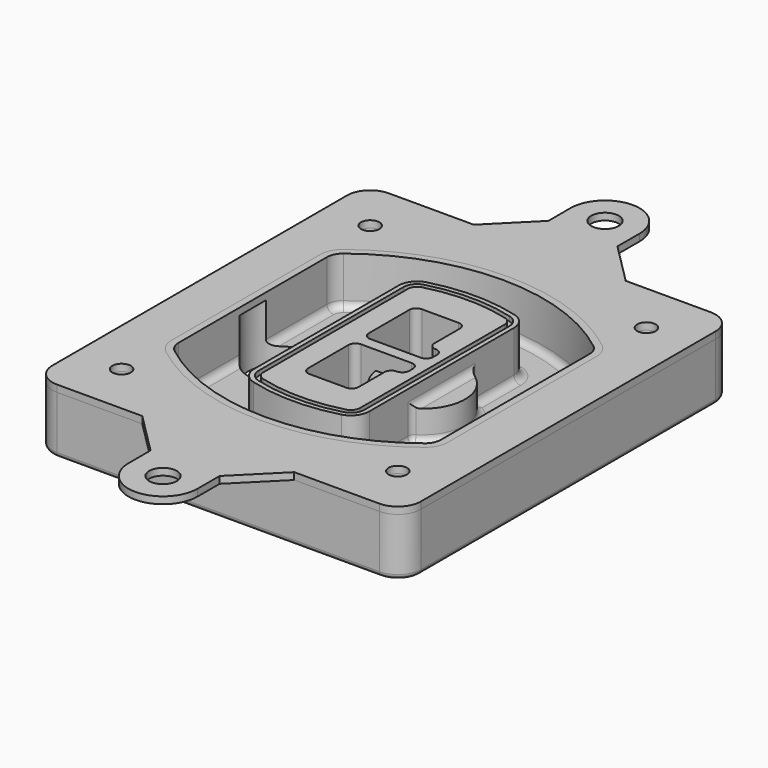
from build123d import *

# Parameters (mm, degrees)
F0_R      = 4
F1_DEPTH  = 25
F2_DEPTH  = 3
F3_DEPTH  = 18
F5_DEPTH  = 21
F6_DEPTH  = 2
F8_DEPTH  = 20
F9_DEPTH  = 16
F10_DEPTH = 25
F7_R      = 6
F7_R_2    = 4
F11_DEPTH = 6
F13_DEPTH = 9
F14_R     = 3
F15_R     = 2
F16_R     = 4
F16_R_2   = 6
F17_DEPTH = 3


with BuildPart() as f1:
    # F0 (on Top) → F1 (new body)
    with BuildSketch(Plane.XY):
        with BuildLine():
            ThreePointArc((-80, -80), (-77.0710678119, -87.0710678119), (-70, -90))
            Line((-70, -90), (70, -90))
            ThreePointArc((70, -90), (77.0710678119, -87.0710678119), (80, -80))
            Line((80, -80), (80, 80))
            ThreePointArc((80, 80), (77.0710678119, 87.0710678119), (70, 90))
            Line((70, 90), (-70, 90))
            ThreePointArc((-70, 90), (-77.0710678119, 87.0710678119), (-80, 80))
            Line((-80, 80), (-80, -80))
        make_face()
        with Locations((-60, -67.5)):
            Circle(F0_R, mode=Mode.SUBTRACT)
        with Locations((60, -67.5)):
            Circle(F0_R, mode=Mode.SUBTRACT)
        with Locations((-60, 67.5)):
            Circle(F0_R, mode=Mode.SUBTRACT)
        with BuildLine():
            ThreePointArc((-64, 40.2934422872), (-62.5820384798, 46.4328484224), (-58.6153846154, 51.3286200352))
            ThreePointArc((-58.6153846154, 51.3286200352), (0, 71.5), (58.6153846154, 51.3286200352))
            ThreePointArc((58.6153846154, 51.3286200352), (62.5820384798, 46.4328484224), (64, 40.2934422872))
            Line((64, 40.2934422872), (64, -40.2934422872))
            ThreePointArc((64, -40.2934422872), (62.5820384798, -46.4328484224), (58.6153846154, -51.3286200352))
            ThreePointArc((58.6153846154, -51.3286200352), (0, -71.5), (-58.6153846154, -51.3286200352))
            ThreePointArc((-58.6153846154, -51.3286200352), (-62.5820384798, -46.4328484224), (-64, -40.2934422872))
            Line((-64, -40.2934422872), (-64, 40.2934422872))
        make_face(mode=Mode.SUBTRACT)
        with Locations((60, 67.5)):
            Circle(F0_R, mode=Mode.SUBTRACT)
        with BuildLine():
            ThreePointArc((58.6153846154, 51.3286200352), (0, 71.5), (-58.6153846154, 51.3286200352))
            ThreePointArc((-58.6153846154, 51.3286200352), (-62.5820384798, 46.4328484224), (-64, 40.2934422872))
            Line((-64, 40.2934422872), (-64, -40.2934422872))
            ThreePointArc((-64, -40.2934422872), (-62.5820384798, -46.4328484224), (-58.6153846154, -51.3286200352))
            ThreePointArc((-58.6153846154, -51.3286200352), (0, -71.5), (58.6153846154, -51.3286200352))
            ThreePointArc((58.6153846154, -51.3286200352), (62.5820384798, -46.4328484224), (64, -40.2934422872))
            Line((64, -40.2934422872), (64, 40.2934422872))
            ThreePointArc((64, 40.2934422872), (62.5820384798, 46.4328484224), (58.6153846154, 51.3286200352))
        make_face()
        with BuildLine():
            Line((-60, -40.2934422872), (-60, 40.2934422872))
            ThreePointArc((-60, 40.2934422872), (-58.9871703427, 44.6787323838), (-56.1538461538, 48.1757121072))
            ThreePointArc((-56.1538461538, 48.1757121072), (0, 67.5), (56.1538461538, 48.1757121072))
            ThreePointArc((56.1538461538, 48.1757121072), (58.9871703427, 44.6787323838), (60, 40.2934422872))
            Line((60, 40.2934422872), (60, -40.2934422872))
            ThreePointArc((60, -40.2934422872), (58.9871703427, -44.6787323838), (56.1538461538, -48.1757121072))
            ThreePointArc((56.1538461538, -48.1757121072), (0, -67.5), (-56.1538461538, -48.1757121072))
            ThreePointArc((-56.1538461538, -48.1757121072), (-58.9871703427, -44.6787323838), (-60, -40.2934422872))
        make_face(mode=Mode.SUBTRACT)
        with BuildLine():
            ThreePointArc((-56.1538461538, 48.1757121072), (-58.9871703427, 44.6787323838), (-60, 40.2934422872))
            Line((-60, 40.2934422872), (-60, -40.2934422872))
            ThreePointArc((-60, -40.2934422872), (-58.9871703427, -44.6787323838), (-56.1538461538, -48.1757121072))
            ThreePointArc((-56.1538461538, -48.1757121072), (0, -67.5), (56.1538461538, -48.1757121072))
            ThreePointArc((56.1538461538, -48.1757121072), (58.9871703427, -44.6787323838), (60, -40.2934422872))
            Line((60, -40.2934422872), (60, 40.2934422872))
            ThreePointArc((60, 40.2934422872), (58.9871703427, 44.6787323838), (56.1538461538, 48.1757121072))
            ThreePointArc((56.1538461538, 48.1757121072), (0, 67.5), (-56.1538461538, 48.1757121072))
        make_face()
        with BuildLine():
            ThreePointArc((54.3076923077, 45.8110311612), (56.2910192399, 43.3631453548), (57, 40.2934422872))
            Line((57, 40.2934422872), (57, -40.2934422872))
            ThreePointArc((57, -40.2934422872), (56.2910192399, -43.3631453548), (54.3076923077, -45.8110311612))
            ThreePointArc((54.3076923077, -45.8110311612), (0, -64.5), (-54.3076923077, -45.8110311612))
            ThreePointArc((-54.3076923077, -45.8110311612), (-56.2910192399, -43.3631453548), (-57, -40.2934422872))
            Line((-57, -40.2934422872), (-57, 40.2934422872))
            ThreePointArc((-57, 40.2934422872), (-56.2910192399, 43.3631453548), (-54.3076923077, 45.8110311612))
            ThreePointArc((-54.3076923077, 45.8110311612), (0, 64.5), (54.3076923077, 45.8110311612))
        make_face(mode=Mode.SUBTRACT)
        with BuildLine():
            Line((57, -40.2934422872), (57, 40.2934422872))
            ThreePointArc((57, 40.2934422872), (56.2910192399, 43.3631453548), (54.3076923077, 45.8110311612))
            ThreePointArc((54.3076923077, 45.8110311612), (0, 64.5), (-54.3076923077, 45.8110311612))
            ThreePointArc((-54.3076923077, 45.8110311612), (-56.2910192399, 43.3631453548), (-57, 40.2934422872))
            Line((-57, 40.2934422872), (-57, -40.2934422872))
            ThreePointArc((-57, -40.2934422872), (-56.2910192399, -43.3631453548), (-54.3076923077, -45.8110311612))
            ThreePointArc((-54.3076923077, -45.8110311612), (0, -64.5), (54.3076923077, -45.8110311612))
            ThreePointArc((54.3076923077, -45.8110311612), (56.2910192399, -43.3631453548), (57, -40.2934422872))
        make_face()
    extrude(amount=-F1_DEPTH)

    # F0 (on Top) → F2 (join)
    with BuildSketch(Plane.XY):
        with BuildLine():
            ThreePointArc((-56.1538461538, 48.1757121072), (-58.9871703427, 44.6787323838), (-60, 40.2934422872))
            Line((-60, 40.2934422872), (-60, -40.2934422872))
            ThreePointArc((-60, -40.2934422872), (-58.9871703427, -44.6787323838), (-56.1538461538, -48.1757121072))
            ThreePointArc((-56.1538461538, -48.1757121072), (0, -67.5), (56.1538461538, -48.1757121072))
            ThreePointArc((56.1538461538, -48.1757121072), (58.9871703427, -44.6787323838), (60, -40.2934422872))
            Line((60, -40.2934422872), (60, 40.2934422872))
            ThreePointArc((60, 40.2934422872), (58.9871703427, 44.6787323838), (56.1538461538, 48.1757121072))
            ThreePointArc((56.1538461538, 48.1757121072), (0, 67.5), (-56.1538461538, 48.1757121072))
        make_face()
        with BuildLine():
            ThreePointArc((54.3076923077, 45.8110311612), (56.2910192399, 43.3631453548), (57, 40.2934422872))
            Line((57, 40.2934422872), (57, -40.2934422872))
            ThreePointArc((57, -40.2934422872), (56.2910192399, -43.3631453548), (54.3076923077, -45.8110311612))
            ThreePointArc((54.3076923077, -45.8110311612), (0, -64.5), (-54.3076923077, -45.8110311612))
            ThreePointArc((-54.3076923077, -45.8110311612), (-56.2910192399, -43.3631453548), (-57, -40.2934422872))
            Line((-57, -40.2934422872), (-57, 40.2934422872))
            ThreePointArc((-57, 40.2934422872), (-56.2910192399, 43.3631453548), (-54.3076923077, 45.8110311612))
            ThreePointArc((-54.3076923077, 45.8110311612), (0, 64.5), (54.3076923077, 45.8110311612))
        make_face(mode=Mode.SUBTRACT)
    extrude(amount=F2_DEPTH)

    # F0 (on Top) → F3 (cut)
    with BuildSketch(Plane.XY):
        with BuildLine():
            Line((57, -40.2934422872), (57, 40.2934422872))
            ThreePointArc((57, 40.2934422872), (56.2910192399, 43.3631453548), (54.3076923077, 45.8110311612))
            ThreePointArc((54.3076923077, 45.8110311612), (0, 64.5), (-54.3076923077, 45.8110311612))
            ThreePointArc((-54.3076923077, 45.8110311612), (-56.2910192399, 43.3631453548), (-57, 40.2934422872))
            Line((-57, 40.2934422872), (-57, -40.2934422872))
            ThreePointArc((-57, -40.2934422872), (-56.2910192399, -43.3631453548), (-54.3076923077, -45.8110311612))
            ThreePointArc((-54.3076923077, -45.8110311612), (0, -64.5), (54.3076923077, -45.8110311612))
            ThreePointArc((54.3076923077, -45.8110311612), (56.2910192399, -43.3631453548), (57, -40.2934422872))
        make_face()
    extrude(amount=-F3_DEPTH, mode=Mode.SUBTRACT)

    # F4 (on face) → F5 (join, through all)
    with BuildSketch(Plane.XY.offset(3)):
        with BuildLine():
            ThreePointArc((-25, -39.2465276821), (-23.3511545998, -44.1109737193), (-19.0842911877, -46.9702398883))
            ThreePointArc((-19.0842911877, -46.9702398883), (0, -49.5), (19.0842911877, -46.9702398883))
            ThreePointArc((19.0842911877, -46.9702398883), (23.3511545998, -44.1109737193), (25, -39.2465276821))
            Line((25, -39.2465276821), (25, 39.2465276821))
            ThreePointArc((25, 39.2465276821), (23.3511545998, 44.1109737193), (19.0842911877, 46.9702398883))
            ThreePointArc((19.0842911877, 46.9702398883), (0, 49.5), (-19.0842911877, 46.9702398883))
            ThreePointArc((-19.0842911877, 46.9702398883), (-23.3511545998, 44.1109737193), (-25, 39.2465276821))
            Line((-25, 39.2465276821), (-25, -39.2465276821))
        make_face()
        with BuildLine():
            ThreePointArc((18.5632183908, 45.0393118368), (21.7633659499, 42.89486221), (23, 39.2465276821))
            Line((23, 39.2465276821), (23, -39.2465276821))
            ThreePointArc((23, -39.2465276821), (21.7633659499, -42.89486221), (18.5632183908, -45.0393118368))
            ThreePointArc((18.5632183908, -45.0393118368), (0, -47.5), (-18.5632183908, -45.0393118368))
            ThreePointArc((-18.5632183908, -45.0393118368), (-21.7633659499, -42.89486221), (-23, -39.2465276821))
            Line((-23, -39.2465276821), (-23, 39.2465276821))
            ThreePointArc((-23, 39.2465276821), (-21.7633659499, 42.89486221), (-18.5632183908, 45.0393118368))
            ThreePointArc((-18.5632183908, 45.0393118368), (0, 47.5), (18.5632183908, 45.0393118368))
        make_face(mode=Mode.SUBTRACT)
        with BuildLine():
            Line((23, -39.2465276821), (23, 39.2465276821))
            ThreePointArc((23, 39.2465276821), (21.7633659499, 42.89486221), (18.5632183908, 45.0393118368))
            ThreePointArc((18.5632183908, 45.0393118368), (0, 47.5), (-18.5632183908, 45.0393118368))
            ThreePointArc((-18.5632183908, 45.0393118368), (-21.7633659499, 42.89486221), (-23, 39.2465276821))
            Line((-23, 39.2465276821), (-23, -39.2465276821))
            ThreePointArc((-23, -39.2465276821), (-21.7633659499, -42.89486221), (-18.5632183908, -45.0393118368))
            ThreePointArc((-18.5632183908, -45.0393118368), (0, -47.5), (18.5632183908, -45.0393118368))
            ThreePointArc((18.5632183908, -45.0393118368), (21.7633659499, -42.89486221), (23, -39.2465276821))
        make_face()
        with BuildLine():
            ThreePointArc((18.0421455939, 43.1083837852), (20.1755772999, 41.6787507007), (21, 39.2465276821))
            Line((21, 39.2465276821), (21, -39.2465276821))
            ThreePointArc((21, -39.2465276821), (20.1755772999, -41.6787507007), (18.0421455939, -43.1083837852))
            ThreePointArc((18.0421455939, -43.1083837852), (0, -45.5), (-18.0421455939, -43.1083837852))
            ThreePointArc((-18.0421455939, -43.1083837852), (-20.1755772999, -41.6787507007), (-21, -39.2465276821))
            Line((-21, -39.2465276821), (-21, 39.2465276821))
            ThreePointArc((-21, 39.2465276821), (-20.1755772999, 41.6787507007), (-18.0421455939, 43.1083837852))
            ThreePointArc((-18.0421455939, 43.1083837852), (0, 45.5), (18.0421455939, 43.1083837852))
        make_face(mode=Mode.SUBTRACT)
        with BuildLine():
            Line((21, -39.2465276821), (21, 39.2465276821))
            ThreePointArc((21, 39.2465276821), (20.1755772999, 41.6787507007), (18.0421455939, 43.1083837852))
            ThreePointArc((18.0421455939, 43.1083837852), (0, 45.5), (-18.0421455939, 43.1083837852))
            ThreePointArc((-18.0421455939, 43.1083837852), (-20.1755772999, 41.6787507007), (-21, 39.2465276821))
            Line((-21, 39.2465276821), (-21, -39.2465276821))
            ThreePointArc((-21, -39.2465276821), (-20.1755772999, -41.6787507007), (-18.0421455939, -43.1083837852))
            ThreePointArc((-18.0421455939, -43.1083837852), (0, -45.5), (18.0421455939, -43.1083837852))
            ThreePointArc((18.0421455939, -43.1083837852), (20.1755772999, -41.6787507007), (21, -39.2465276821))
        make_face()
        with BuildLine():
            Line((-8, -2.5), (14, -2.5))
            ThreePointArc((14, -2.5), (16.1213203436, -3.3786796564), (17, -5.5))
            Line((17, -5.5), (17, -7.5))
            ThreePointArc((17, -7.5), (16.1213203436, -9.6213203436), (14, -10.5))
            ThreePointArc((14, -10.5), (11.8786796564, -11.3786796564), (11, -13.5))
            Line((11, -13.5), (11, -27.5))
            ThreePointArc((11, -27.5), (10.1213203436, -29.6213203436), (8, -30.5))
            Line((8, -30.5), (-8, -30.5))
            ThreePointArc((-8, -30.5), (-10.1213203436, -29.6213203436), (-11, -27.5))
            Line((-11, -27.5), (-11, -5.5))
            ThreePointArc((-11, -5.5), (-10.1213203436, -3.3786796564), (-8, -2.5))
        make_face(mode=Mode.SUBTRACT)
        with BuildLine():
            ThreePointArc((-8, 2.5), (-10.1213203436, 3.3786796564), (-11, 5.5))
            Line((-11, 5.5), (-11, 27.5))
            ThreePointArc((-11, 27.5), (-10.1213203436, 29.6213203436), (-8, 30.5))
            Line((-8, 30.5), (8, 30.5))
            ThreePointArc((8, 30.5), (10.1213203436, 29.6213203436), (11, 27.5))
            Line((11, 27.5), (11, 13.5))
            ThreePointArc((11, 13.5), (11.8786796564, 11.3786796564), (14, 10.5))
            ThreePointArc((14, 10.5), (16.1213203436, 9.6213203436), (17, 7.5))
            Line((17, 7.5), (17, 5.5))
            ThreePointArc((17, 5.5), (16.1213203436, 3.3786796564), (14, 2.5))
            Line((14, 2.5), (-8, 2.5))
        make_face(mode=Mode.SUBTRACT)
    extrude(amount=-F5_DEPTH)

    # F4 (on face) → F6 (cut)
    with BuildSketch(Plane.XY.offset(3)):
        with BuildLine():
            Line((23, -39.2465276821), (23, 39.2465276821))
            ThreePointArc((23, 39.2465276821), (21.7633659499, 42.89486221), (18.5632183908, 45.0393118368))
            ThreePointArc((18.5632183908, 45.0393118368), (0, 47.5), (-18.5632183908, 45.0393118368))
            ThreePointArc((-18.5632183908, 45.0393118368), (-21.7633659499, 42.89486221), (-23, 39.2465276821))
            Line((-23, 39.2465276821), (-23, -39.2465276821))
            ThreePointArc((-23, -39.2465276821), (-21.7633659499, -42.89486221), (-18.5632183908, -45.0393118368))
            ThreePointArc((-18.5632183908, -45.0393118368), (0, -47.5), (18.5632183908, -45.0393118368))
            ThreePointArc((18.5632183908, -45.0393118368), (21.7633659499, -42.89486221), (23, -39.2465276821))
        make_face()
        with BuildLine():
            ThreePointArc((18.0421455939, 43.1083837852), (20.1755772999, 41.6787507007), (21, 39.2465276821))
            Line((21, 39.2465276821), (21, -39.2465276821))
            ThreePointArc((21, -39.2465276821), (20.1755772999, -41.6787507007), (18.0421455939, -43.1083837852))
            ThreePointArc((18.0421455939, -43.1083837852), (0, -45.5), (-18.0421455939, -43.1083837852))
            ThreePointArc((-18.0421455939, -43.1083837852), (-20.1755772999, -41.6787507007), (-21, -39.2465276821))
            Line((-21, -39.2465276821), (-21, 39.2465276821))
            ThreePointArc((-21, 39.2465276821), (-20.1755772999, 41.6787507007), (-18.0421455939, 43.1083837852))
            ThreePointArc((-18.0421455939, 43.1083837852), (0, 45.5), (18.0421455939, 43.1083837852))
        make_face(mode=Mode.SUBTRACT)
    extrude(amount=-F6_DEPTH, mode=Mode.SUBTRACT)

    # F7 (on face) → F8 (join)
    with BuildSketch(Plane(origin=(0, 0, -25), x_dir=(1, 0, 0), z_dir=(0, 0, -1))):
        with BuildLine():
            ThreePointArc((3.28842436, 0), (16.7567035675, 13.4682792075), (30.224982775, 0))
            Line((30.224982775, 0), (35.224982775, 0))
            ThreePointArc((35.224982775, 0), (16.7567035675, 18.4682792075), (-1.71157564, 0))
            Line((-1.71157564, 0), (3.28842436, 0))
        make_face()
        with BuildLine():
            Line((3.28842436, 0), (30.224982775, 0))
            ThreePointArc((30.224982775, 0), (16.7567035675, 13.4682792075), (3.28842436, 0))
        make_face()
        with BuildLine():
            ThreePointArc((3.28842436, 0), (16.7567035675, -13.4682792075), (30.224982775, 0))
            Line((30.224982775, 0), (3.28842436, 0))
        make_face()
        with BuildLine():
            Line((35.224982775, 0), (30.224982775, 0))
            ThreePointArc((30.224982775, 0), (16.7567035675, -13.4682792075), (3.28842436, 0))
            Line((3.28842436, 0), (-1.71157564, 0))
            ThreePointArc((-1.71157564, 0), (16.7567035675, -18.4682792075), (35.224982775, 0))
        make_face()
    extrude(amount=-F8_DEPTH)

    # F7 (on face) → F9 (cut)
    with BuildSketch(Plane(origin=(0, 0, -25), x_dir=(1, 0, 0), z_dir=(0, 0, -1))):
        with BuildLine():
            Line((3.28842436, 0), (30.224982775, 0))
            ThreePointArc((30.224982775, 0), (16.7567035675, 13.4682792075), (3.28842436, 0))
        make_face()
        with BuildLine():
            ThreePointArc((3.28842436, 0), (16.7567035675, -13.4682792075), (30.224982775, 0))
            Line((30.224982775, 0), (3.28842436, 0))
        make_face()
    extrude(amount=-F9_DEPTH, mode=Mode.SUBTRACT)

    # F7 (on face) → F10 (cut)
    with BuildSketch(Plane(origin=(0, 0, -25), x_dir=(1, 0, 0), z_dir=(0, 0, -1))):
        with BuildLine():
            Line((-59.0318229325, 0), (-32.0952645175, 0))
            ThreePointArc((-32.0952645175, 0), (-45.563543725, 13.4682792075), (-59.0318229325, 0))
        make_face()
        with BuildLine():
            ThreePointArc((-59.0318229325, 0), (-45.563543725, -13.4682792075), (-32.0952645175, 0))
            Line((-32.0952645175, 0), (-59.0318229325, 0))
        make_face()
    extrude(amount=-F10_DEPTH, mode=Mode.SUBTRACT)

    # F7 (on face) → F11 (cut)
    with BuildSketch(Plane(origin=(0, 0, -25), x_dir=(1, 0, 0), z_dir=(0, 0, -1))):
        with Locations((60, -67.5)):
            Circle(F7_R)
        with Locations((60, -67.5)):
            Circle(F7_R_2, mode=Mode.SUBTRACT)
        with Locations((60, -67.5)):
            Circle(F7_R)
        with Locations((60, -67.5)):
            Circle(F7_R_2, mode=Mode.SUBTRACT)
        with Locations((-60, -67.5)):
            Circle(F7_R)
        with Locations((-60, -67.5)):
            Circle(F7_R_2, mode=Mode.SUBTRACT)
        with Locations((-60, -67.5)):
            Circle(F7_R)
        with Locations((-60, -67.5)):
            Circle(F7_R_2, mode=Mode.SUBTRACT)
        with Locations((-60, 67.5)):
            Circle(F7_R)
        with Locations((-60, 67.5)):
            Circle(F7_R_2, mode=Mode.SUBTRACT)
        with Locations((-60, 67.5)):
            Circle(F7_R)
        with Locations((-60, 67.5)):
            Circle(F7_R_2, mode=Mode.SUBTRACT)
        with Locations((60, 67.5)):
            Circle(F7_R)
        with Locations((60, 67.5)):
            Circle(F7_R_2, mode=Mode.SUBTRACT)
        with Locations((60, 67.5)):
            Circle(F7_R)
        with Locations((60, 67.5)):
            Circle(F7_R_2, mode=Mode.SUBTRACT)
    extrude(amount=-F11_DEPTH, mode=Mode.SUBTRACT)

    # F12 (on face) → F13 (cut, through all)
    with BuildSketch(Plane(origin=(0, 0, -9), x_dir=(1, 0, 0), z_dir=(0, 0, -1))):
        with BuildLine():
            Line((11, 13.5), (11, 17.5481537753))
            ThreePointArc((11, 17.5481537753), (2.5696536419, 11.8239143813), (-1.5415842455, 2.5))
            Line((-1.5415842455, 2.5), (3.5224848595, 2.5))
            ThreePointArc((3.5224848595, 2.5), (6.1857188154, 8.3455872281), (11.2536447004, 12.2927168648))
            ThreePointArc((11.2536447004, 12.2927168648), (11.0640958889, 12.8831798879), (11, 13.5))
        make_face()
        with BuildLine():
            ThreePointArc((11.2536447004, -12.2927168648), (6.1857188154, -8.3455872281), (3.5224848595, -2.5))
            Line((3.5224848595, -2.5), (-1.5415842455, -2.5))
            ThreePointArc((-1.5415842455, -2.5), (2.5696536419, -11.8239143813), (11, -17.5481537753))
            Line((11, -17.5481537753), (11, -13.5))
            ThreePointArc((11, -13.5), (11.0640958889, -12.8831798879), (11.2536447004, -12.2927168648))
        make_face()
        with BuildLine():
            ThreePointArc((11.2536447004, 12.2927168648), (6.1857188154, 8.3455872281), (3.5224848595, 2.5))
            Line((3.5224848595, 2.5), (14, 2.5))
            ThreePointArc((14, 2.5), (16.1213203436, 3.3786796564), (17, 5.5))
            Line((17, 5.5), (17, 7.5))
            ThreePointArc((17, 7.5), (16.1213203436, 9.6213203436), (14, 10.5))
            ThreePointArc((14, 10.5), (12.3601599782, 10.9878446101), (11.2536447004, 12.2927168648))
        make_face()
        with BuildLine():
            Line((14, -2.5), (3.5224848595, -2.5))
            ThreePointArc((3.5224848595, -2.5), (6.1857188154, -8.3455872281), (11.2536447004, -12.2927168648))
            ThreePointArc((11.2536447004, -12.2927168648), (12.3601599782, -10.9878446101), (14, -10.5))
            ThreePointArc((14, -10.5), (16.1213203436, -9.6213203436), (17, -7.5))
            Line((17, -7.5), (17, -5.5))
            ThreePointArc((17, -5.5), (16.1213203436, -3.3786796564), (14, -2.5))
        make_face()
    extrude(amount=F13_DEPTH, mode=Mode.SUBTRACT)

    # F14
    f14_edges = [f1.edges().sort_by_distance(p)[0] for p in [
        (-57, -23.703476, -18),
        (-57, 23.703476, -18),
        (25, 0, -5),
        (25, 16.526506, -11.5),
        (25, -16.526506, -11.5),
        (25, -27.886517, -18),
        (35.224983, 0, -18),
    ]]
    fillet(f14_edges, radius=F14_R)

    # F15
    f15_edges = [f1.edges().sort_by_distance(p)[0] for p in [
        (0, -90, -25),
    ]]
    fillet(f15_edges, radius=F15_R)


with BuildPart() as f17:
    # F16 (on face) → F17 (new body, through all)
    with BuildSketch(Plane.XY):
        with BuildLine():
            Line((-80, 80), (-80, -80))
            ThreePointArc((-80, -80), (-77.0710678119, -87.0710678119), (-70, -90))
            Line((-70, -90), (-33, -90))
            Line((-33, -90), (33, -90))
            Line((33, -90), (70, -90))
            ThreePointArc((70, -90), (77.0710678119, -87.0710678119), (80, -80))
            Line((80, -80), (80, 80))
            ThreePointArc((80, 80), (77.0710678119, 87.0710678119), (70, 90))
            Line((70, 90), (33, 90))
            Line((33, 90), (-33, 90))
            Line((-33, 90), (-70, 90))
            ThreePointArc((-70, 90), (-77.0710678119, 87.0710678119), (-80, 80))
        make_face()
        with Locations((-60, -67.5)):
            Circle(F16_R, mode=Mode.SUBTRACT)
        with Locations((60, -67.5)):
            Circle(F16_R, mode=Mode.SUBTRACT)
        with Locations((-60, 67.5)):
            Circle(F16_R, mode=Mode.SUBTRACT)
        with BuildLine():
            Line((-60, -40.2934422872), (-60, 40.2934422872))
            ThreePointArc((-60, 40.2934422872), (-58.9871703427, 44.6787323838), (-56.1538461538, 48.1757121072))
            ThreePointArc((-56.1538461538, 48.1757121072), (0, 67.5), (56.1538461538, 48.1757121072))
            ThreePointArc((56.1538461538, 48.1757121072), (58.9871703427, 44.6787323838), (60, 40.2934422872))
            Line((60, 40.2934422872), (60, -40.2934422872))
            ThreePointArc((60, -40.2934422872), (58.9871703427, -44.6787323838), (56.1538461538, -48.1757121072))
            ThreePointArc((56.1538461538, -48.1757121072), (0, -67.5), (-56.1538461538, -48.1757121072))
            ThreePointArc((-56.1538461538, -48.1757121072), (-58.9871703427, -44.6787323838), (-60, -40.2934422872))
        make_face(mode=Mode.SUBTRACT)
        with Locations((60, 67.5)):
            Circle(F16_R, mode=Mode.SUBTRACT)
        with BuildLine():
            Line((-80, 80), (-80, -80))
            ThreePointArc((-80, -80), (-77.0710678119, -87.0710678119), (-70, -90))
            Line((-70, -90), (-33, -90))
            Line((-33, -90), (33, -90))
            Line((33, -90), (70, -90))
            ThreePointArc((70, -90), (77.0710678119, -87.0710678119), (80, -80))
            Line((80, -80), (80, 80))
            ThreePointArc((80, 80), (77.0710678119, 87.0710678119), (70, 90))
            Line((70, 90), (33, 90))
            Line((33, 90), (-33, 90))
            Line((-33, 90), (-70, 90))
            ThreePointArc((-70, 90), (-77.0710678119, 87.0710678119), (-80, 80))
        make_face()
        with Locations((-60, -67.5)):
            Circle(F16_R, mode=Mode.SUBTRACT)
        with Locations((60, -67.5)):
            Circle(F16_R, mode=Mode.SUBTRACT)
        with Locations((-60, 67.5)):
            Circle(F16_R, mode=Mode.SUBTRACT)
        with BuildLine():
            Line((-60, -40.2934422872), (-60, 40.2934422872))
            ThreePointArc((-60, 40.2934422872), (-58.9871703427, 44.6787323838), (-56.1538461538, 48.1757121072))
            ThreePointArc((-56.1538461538, 48.1757121072), (0, 67.5), (56.1538461538, 48.1757121072))
            ThreePointArc((56.1538461538, 48.1757121072), (58.9871703427, 44.6787323838), (60, 40.2934422872))
            Line((60, 40.2934422872), (60, -40.2934422872))
            ThreePointArc((60, -40.2934422872), (58.9871703427, -44.6787323838), (56.1538461538, -48.1757121072))
            ThreePointArc((56.1538461538, -48.1757121072), (0, -67.5), (-56.1538461538, -48.1757121072))
            ThreePointArc((-56.1538461538, -48.1757121072), (-58.9871703427, -44.6787323838), (-60, -40.2934422872))
        make_face(mode=Mode.SUBTRACT)
        with Locations((60, 67.5)):
            Circle(F16_R, mode=Mode.SUBTRACT)
        with BuildLine():
            Line((-15, 108), (-33, 90))
            Line((-33, 90), (33, 90))
            Line((33, 90), (15, 108))
            Line((15, 108), (15, 120))
            ThreePointArc((15, 120), (0, 135), (-15, 120))
            Line((-15, 120), (-15, 108))
        make_face()
        with Locations((0, 120)):
            Circle(F16_R_2, mode=Mode.SUBTRACT)
        with BuildLine():
            Line((33, -90), (-33, -90))
            Line((-33, -90), (-15, -108))
            Line((-15, -108), (-15, -120))
            ThreePointArc((-15, -120), (0, -135), (15, -120))
            Line((15, -120), (15, -108))
            Line((15, -108), (33, -90))
        make_face()
        with Locations((0, -120)):
            Circle(F16_R_2, mode=Mode.SUBTRACT)
    extrude(amount=F17_DEPTH)


solid = Compound([f1.part, f17.part])
